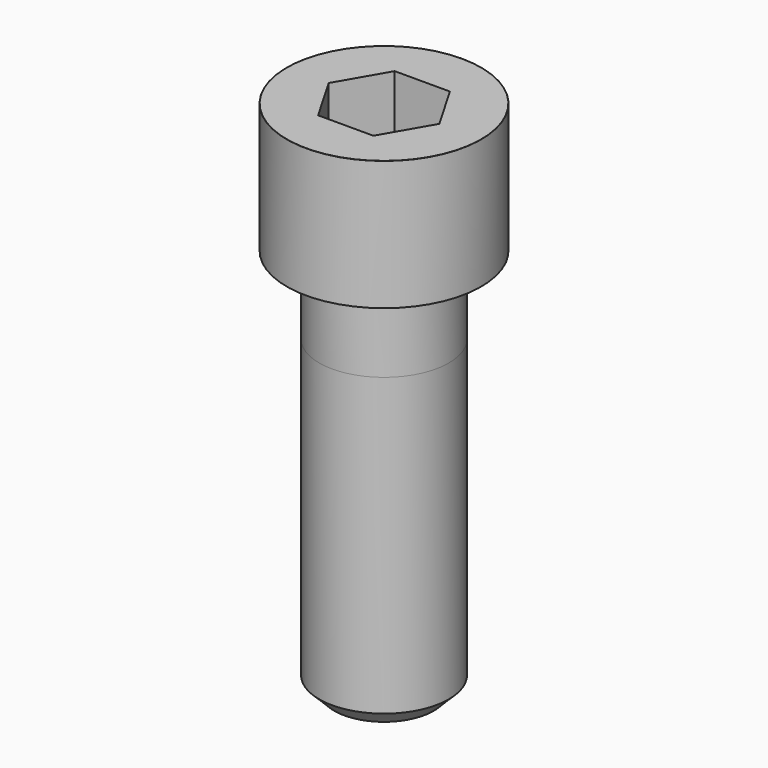
from build123d import *

# Parameters (mm, degrees)
POCKET_DEPTH = 22.15


with BuildPart() as part:
    # Sketch → Revolve (revolve)
    with BuildSketch(Plane.YZ):
        with BuildLine():
            Line((14.999, 0), (22.5, 0))
            Line((22.5, 0), (22.5, 29.97229))
            ThreePointArc((22.5, 29.97229), (22.491884, 29.991884), (22.47229, 30))
            Line((22.47229, 30), (0, 30))
            Line((0, -90), (0, 30))
            Line((11.5, -90), (0, -90))
            Line((15, -86.5), (11.5, -90))
            Line((15, -18), (15, -86.5))
            Line((14.999, 0), (15, -18))
        make_face()
    revolve(axis=Axis((0, 0, 0), (0, 0, 1)))

    # Sketch001 → Pocket (cut)
    with BuildSketch(Plane.XY.offset(30)):
        Polygon((12.788308, 0), (6.394154, 11.075), (-6.394154, 11.075), (-12.788308, 0), (-6.394154, -11.075), (6.394154, -11.075), align=None)
    extrude(amount=-POCKET_DEPTH, mode=Mode.SUBTRACT)


solid = part.part
